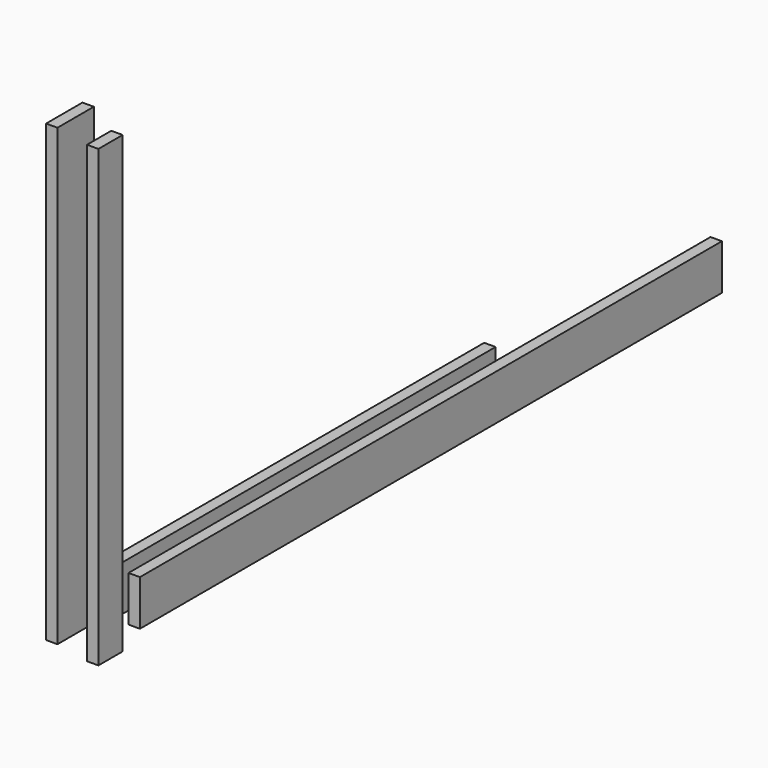
from build123d import *

# Parameters (mm, degrees)
F0_W     = 19.05
F0_H     = 76.2
F1_DEPTH = 1219.2
F2_W     = 19.05
F2_H     = 76.2
F3_DEPTH = 800.1
F4_W     = 19.05
F4_H     = 76.2
F5_DEPTH = 762
F6_W     = 19.05
F6_H     = 50.8
F7_DEPTH = 762


with BuildPart() as f1:
    # F0 (on Front) → F1 (new body)
    with BuildSketch(Plane.XZ):
        with Locations((9.525, 38.1)):
            Rectangle(F0_W, F0_H)
    extrude(amount=-F1_DEPTH)


with BuildPart() as f3:
    # F2 (on Front) → F3 (new body)
    with BuildSketch(Plane.XZ):
        with Locations((-34.545891, 38.1)):
            Rectangle(F2_W, F2_H)
    extrude(amount=-F3_DEPTH)


with BuildPart() as f5:
    # F4 (on Top) → F5 (new body)
    with BuildSketch(Plane.XY):
        with Locations((-47.340003, -63.5)):
            Rectangle(F4_W, F4_H)
    extrude(amount=F5_DEPTH)


with BuildPart() as f7:
    # F6 (on Top) → F7 (new body)
    with BuildSketch(Plane.XY):
        with Locations((32.033181, -89.655731)):
            Rectangle(F6_W, F6_H)
    extrude(amount=F7_DEPTH)


solid = Compound([f1.part, f3.part, f5.part, f7.part])
